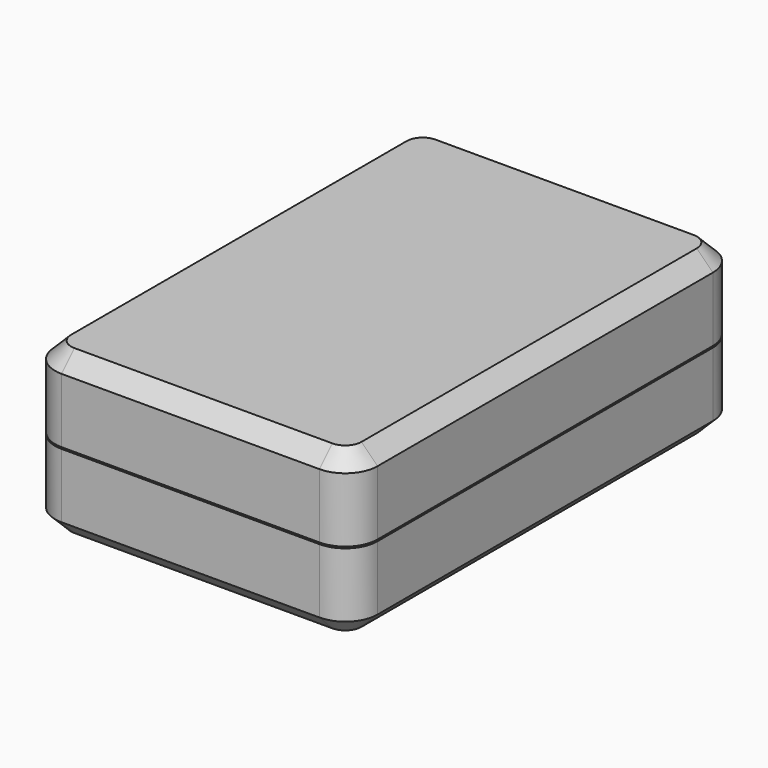
from build123d import *

# Parameters (mm, degrees)
PAD_DEPTH       = 10
PAD001_DEPTH    = 3
POCKET_DEPTH    = 8
CHAMFER001_SIZE = 2
PAD002_DEPTH    = 10
THICKNESS_T     = -2
POCKET001_DEPTH = 3
CHAMFER_SIZE    = 2


with BuildPart() as base:
    # Sketch → Pad (new body)
    with BuildSketch(Plane.XY):
        with BuildLine():
            Line((-20, 26), (-20, -26))
            ThreePointArc((-20, -26), (-18.828427, -28.828427), (-16, -30))
            Line((-16, -30), (16, -30))
            ThreePointArc((16, -30), (18.828427, -28.828427), (20, -26))
            Line((20, -26), (20, 26))
            ThreePointArc((20, 26), (18.828427, 28.828427), (16, 30))
            Line((16, 30), (-16, 30))
            ThreePointArc((-16, 30), (-18.828427, 28.828427), (-20, 26))
        make_face()
    extrude(amount=PAD_DEPTH)

    # Sketch001 → Pad001 (join)
    with BuildSketch(Plane.XY.offset(10)):
        with BuildLine():
            Line((-19, 26), (-19, -26))
            ThreePointArc((-19, -26), (-18.12132, -28.12132), (-16, -29))
            Line((-16, -29), (16, -29))
            ThreePointArc((16, -29), (18.12132, -28.12132), (19, -26))
            Line((19, -26), (19, 26))
            ThreePointArc((19, 26), (18.12132, 28.12132), (16, 29))
            Line((16, 29), (-16, 29))
            ThreePointArc((-16, 29), (-18.12132, 28.12132), (-19, 26))
        make_face()
        with BuildLine():
            Line((-18, 26), (-18, -26))
            ThreePointArc((-18, -26), (-17.414214, -27.414214), (-16, -28))
            Line((-16, -28), (16, -28))
            ThreePointArc((16, -28), (17.414214, -27.414214), (18, -26))
            Line((18, -26), (18, 26))
            ThreePointArc((18, 26), (17.414214, 27.414214), (16, 28))
            Line((16, 28), (-16, 28))
            ThreePointArc((-16, 28), (-17.414214, 27.414214), (-18, 26))
        make_face(mode=Mode.SUBTRACT)
    extrude(amount=PAD001_DEPTH)

    # Sketch002 (on Face28 of Pad001) → Pocket (cut)
    with BuildSketch(Plane.XY.offset(10)):
        with BuildLine():
            Line((18, -26), (18, 26))
            ThreePointArc((18, 26), (17.414214, 27.414214), (16, 28))
            Line((16, 28), (-16, 28))
            ThreePointArc((-16, 28), (-17.414214, 27.414214), (-18, 26))
            Line((-18, 26), (-18, -26))
            ThreePointArc((-18, -26), (-17.414214, -27.414214), (-16, -28))
            Line((-16, -28), (16, -28))
            ThreePointArc((16, -28), (17.414214, -27.414214), (18, -26))
        make_face()
    extrude(amount=-POCKET_DEPTH, mode=Mode.SUBTRACT)

    # Chamfer001
    chamfer001_edges = [base.edges().sort_by_distance(p)[0] for p in [
        (-18.828427, -28.828427, 0),
        (0, -30, 0),
        (18.828427, -28.828427, 0),
        (20, 0, 0),
        (18.828427, 28.828427, 0),
        (0, 30, 0),
        (-18.828427, 28.828427, 0),
        (-20, 0, 0),
    ]]
    chamfer(chamfer001_edges, length=CHAMFER001_SIZE)


with BuildPart() as lid:
    # Sketch003 → Pad002 (new body)
    with BuildSketch(Plane.XY.offset(10.2)):
        with BuildLine():
            Line((-20, 26), (-20, -26))
            ThreePointArc((-20, -26), (-18.828427, -28.828427), (-16, -30))
            Line((-16, -30), (16, -30))
            ThreePointArc((16, -30), (18.828427, -28.828427), (20, -26))
            Line((20, -26), (20, 26))
            ThreePointArc((20, 26), (18.828427, 28.828427), (16, 30))
            Line((16, 30), (-16, 30))
            ThreePointArc((-16, 30), (-18.828427, 28.828427), (-20, 26))
        make_face()
    extrude(amount=PAD002_DEPTH)

    # Thickness
    thickness_openings = [lid.faces().sort_by_distance(p)[0] for p in [
        (0, 0, 10.2),
    ]]
    offset(amount=THICKNESS_T, openings=thickness_openings)

    # Sketch004 (on Face10 of Thickness) → Pocket001 (cut)
    with BuildSketch(Plane(origin=(0, 0, 10.2), x_dir=(1, 0, 0), z_dir=(0, 0, -1))):
        with BuildLine():
            Line((-19.2, 26), (-19.2, -26))
            ThreePointArc((-19.2, -26), (-18.262742, -28.262742), (-16, -29.2))
            Line((-16, -29.2), (16, -29.2))
            ThreePointArc((16, -29.2), (18.262742, -28.262742), (19.2, -26))
            Line((19.2, -26), (19.2, 26))
            ThreePointArc((19.2, 26), (18.262742, 28.262742), (16, 29.2))
            Line((16, 29.2), (-16, 29.2))
            ThreePointArc((-16, 29.2), (-18.262742, 28.262742), (-19.2, 26))
        make_face()
    extrude(amount=-POCKET001_DEPTH, mode=Mode.SUBTRACT)

    # Chamfer
    chamfer_edges = [lid.edges().sort_by_distance(p)[0] for p in [
        (-20, 0, 20.2),
        (-18.828427, -28.828427, 20.2),
        (0, -30, 20.2),
        (18.828427, -28.828427, 20.2),
        (20, 0, 20.2),
        (18.828427, 28.828427, 20.2),
        (0, 30, 20.2),
        (-18.828427, 28.828427, 20.2),
    ]]
    chamfer(chamfer_edges, length=CHAMFER_SIZE)


solid = Compound([base.part, lid.part])
